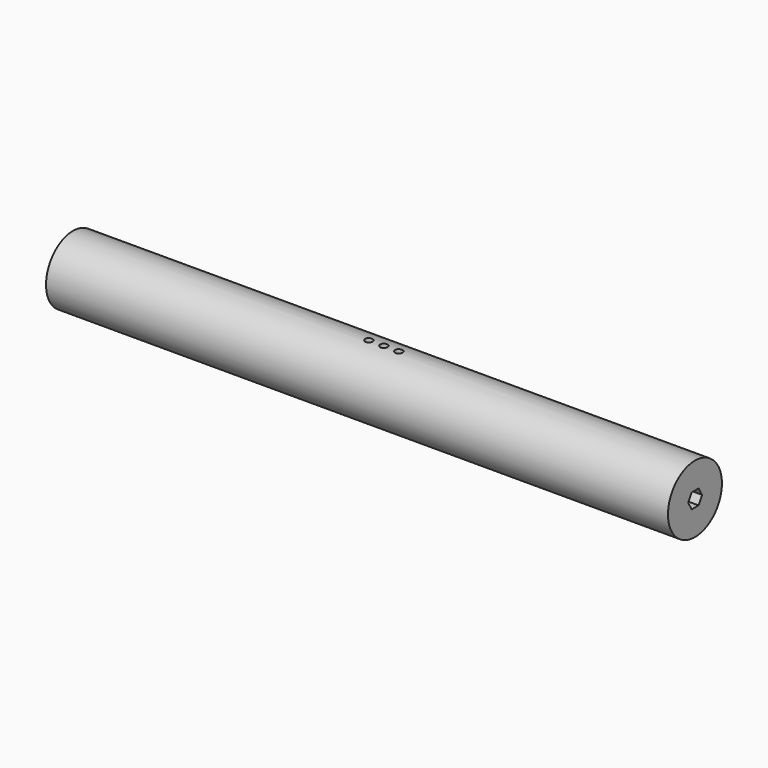
from build123d import *

# Parameters (mm, degrees)
F0_R     = 28.575
F1_DEPTH = 263.525
F3_R     = 3.175
F4_DEPTH = 91.694


with BuildPart() as f1:
    # F0 (on Right) → F1 (new body, symmetric)
    with BuildSketch(Plane.YZ):
        Circle(F0_R)
        Polygon((-3.467653, 6.249271), (3.864695, 6.249271), (7.530869, -0.100729), (3.864695, -6.450729), (-3.467653, -6.450729), (-7.133827, -0.100729), align=None, mode=Mode.SUBTRACT)
    extrude(amount=F1_DEPTH, both=True)

    # F3 (on offset) → F4 (cut)
    with BuildSketch(Plane.XY.offset(28.575)):
        Circle(F3_R)
        with Locations((-12.7, 0)):
            Circle(F3_R)
        with Locations((12.7, 0)):
            Circle(F3_R)
    extrude(amount=-F4_DEPTH, mode=Mode.SUBTRACT)


solid = f1.part
